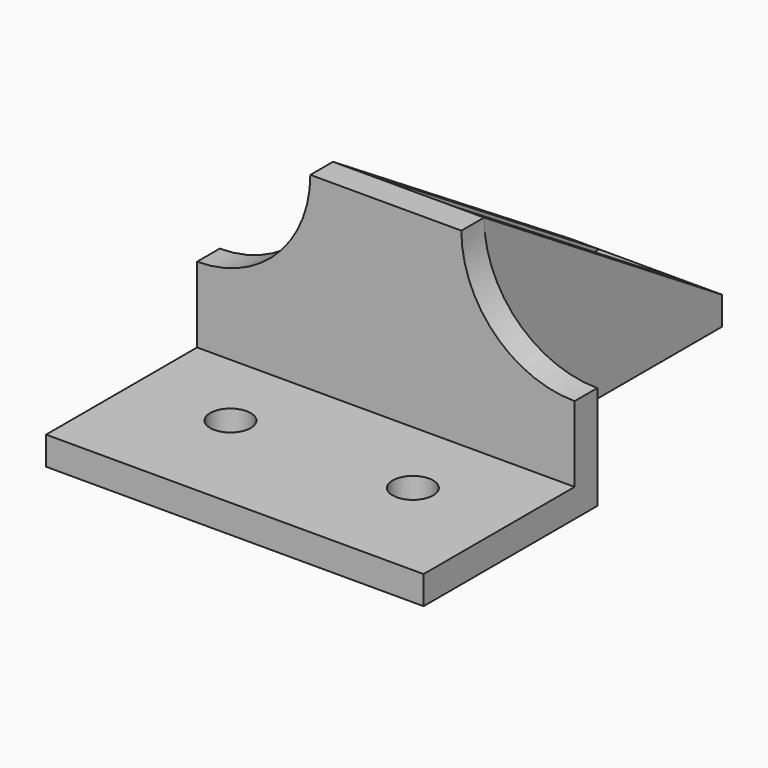
from build123d import *

# Parameters (mm, degrees)
F0_R      = 2.15
F1_DEPTH  = 3
F2_W      = 40
F2_H      = 3
F3_DEPTH  = 20
F5_DEPTH  = 4
F7_START  = -12
F7_DEPTH  = 3
F8_START  = -25
F8_DEPTH  = 3
F10_DEPTH = 1


with BuildPart() as f1:
    # F0 (on Top) → F1 (new body)
    with BuildSketch(Plane.XY):
        Polygon((-8, 4.2815308196), (-8, -7.7184691804), (8, -7.7184691804), (8, 4.2815308196), (8, 23.7919500181), (-8, 23.7919500181), align=None)
        with BuildLine():
            ThreePointArc((-1.55, 18.7919500181), (0, 20.3419500181), (1.55, 18.7919500181))
            Line((1.55, 18.7919500181), (1.55, 2.2815308196))
            ThreePointArc((1.55, 2.2815308196), (0, 0.7315308196), (-1.55, 2.2815308196))
            Line((-1.55, 2.2815308196), (-1.55, 18.7919500181))
        make_face(mode=Mode.SUBTRACT)
        with BuildLine():
            ThreePointArc((-8, 4.2815308196), (-11.5147186258, -4.2037505546), (-20, -7.7184691804))
            Line((-20, -7.7184691804), (-8, -7.7184691804))
            Line((-8, -7.7184691804), (-8, 4.2815308196))
        make_face()
        with BuildLine():
            Line((8, 4.2815308196), (8, -7.7184691804))
            Line((8, -7.7184691804), (20, -7.7184691804))
            ThreePointArc((20, -7.7184691804), (11.5147186258, -4.2037505546), (8, 4.2815308196))
        make_face()
        Polygon((-8, -7.7184691804), (-20, -7.7184691804), (-20, -30.7184691804), (20, -30.7184691804), (20, -7.7184691804), (8, -7.7184691804), align=None)
        with Locations((-9.6621733536, -19.2184691804)):
            Circle(F0_R, mode=Mode.SUBTRACT)
        with Locations((9.6621733536, -19.2184691804)):
            Circle(F0_R, mode=Mode.SUBTRACT)
    extrude(amount=F1_DEPTH)

    # F2 (on face) → F3 (join)
    with BuildSketch(Plane.XY.offset(3)):
        with Locations((0, -9.2184691804)):
            Rectangle(F2_W, F2_H)
    extrude(amount=F3_DEPTH)

    # F4 (on face) → F5 (cut)
    with BuildSketch(Plane.XZ.offset(10.7184691804)):
        with BuildLine():
            Line((-20, 23), (-20, 11))
            ThreePointArc((-20, 11), (-11.5147186258, 14.5147186258), (-8, 23))
            Line((-8, 23), (-20, 23))
        make_face()
        with BuildLine():
            Line((20, 23), (8, 23))
            ThreePointArc((8, 23), (11.5147186258, 14.5147186258), (20, 11))
            Line((20, 11), (20, 23))
        make_face()
    extrude(amount=-F5_DEPTH, mode=Mode.SUBTRACT)

    # F6 (on face) → F7 (join)
    with BuildSketch(Plane.YZ.offset(20).offset(F7_START)):
        Polygon((23.7919500181, 3), (-7.7184691804, 23), (-7.7184691804, 11), (-7.7184691804, 3), align=None)
    extrude(amount=-F7_DEPTH)

    # F6 (on face) → F8 (join)
    with BuildSketch(Plane.YZ.offset(20).offset(F8_START)):
        Polygon((23.7919500181, 3), (-7.7184691804, 23), (-7.7184691804, 3), align=None)
    extrude(amount=-F8_DEPTH)

    # F9 (on face) → F10 (cut)
    with BuildSketch(Plane.XY.offset(3)):
        Polygon((1.2478875427, 21.9026152913), (-1.2478875427, 21.9026152913), (-2.5953908917, 20.6514410675), (-2.5953908917, 0), (-1.2478875427, -1.1958031218), (1.2478875427, -1.1958031218), (2.5953908917, 0), (2.5953908917, 20.6514410675), align=None)
        with BuildLine():
            Line((-1.55, 2.2815308196), (-1.55, 18.7919500181))
            ThreePointArc((-1.55, 18.7919500181), (0, 20.3419500181), (1.55, 18.7919500181))
            Line((1.55, 18.7919500181), (1.55, 2.2815308196))
            ThreePointArc((1.55, 2.2815308196), (0, 0.7315308196), (-1.55, 2.2815308196))
        make_face(mode=Mode.SUBTRACT)
    extrude(amount=-F10_DEPTH, mode=Mode.SUBTRACT)


solid = f1.part
